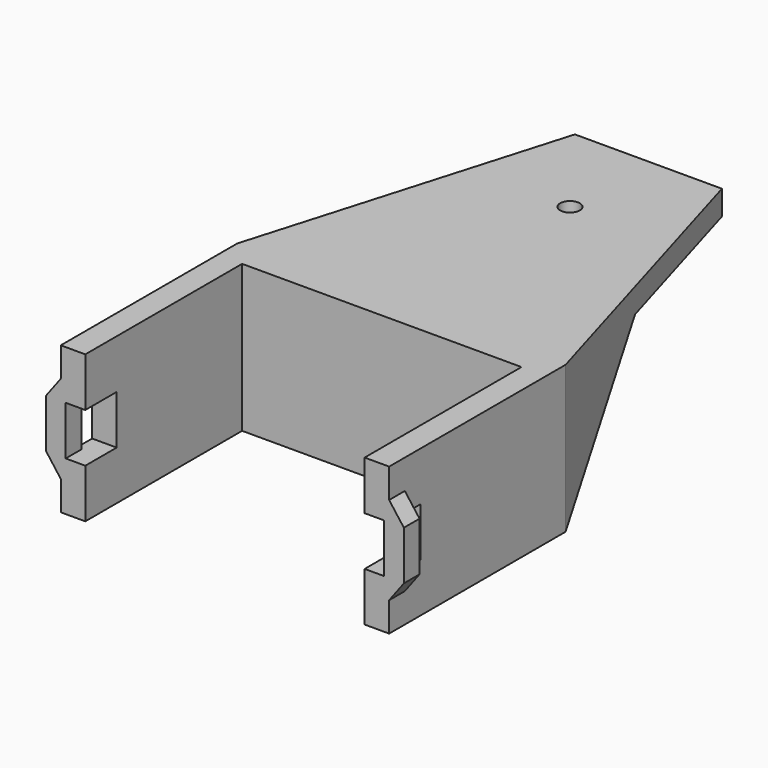
from build123d import *

# Parameters (mm, degrees)
SKETCH_R     = 2
PAD_DEPTH    = 30
SKETCH001_W  = 8
SKETCH001_H  = 10
POCKET_DEPTH = 67.001
PAD001_DEPTH = 4


with BuildPart() as part:
    # Sketch → Pad (new body)
    with BuildSketch(Plane.XY):
        Polygon((-33.5, 0), (-33.5, 45), (-15, 108), (15, 108), (33.5, 45), (33.5, 0), (28.5, 0), (28.5, 40), (-28.5, 40), (-28.5, 0), align=None)
        with Locations((0, 88)):
            Circle(SKETCH_R, mode=Mode.SUBTRACT)
    extrude(amount=PAD_DEPTH)

    # Sketch001 (on Face1 of Pad) → Pocket (cut, through all)
    with BuildSketch(Plane.YZ.offset(33.5)):
        Polygon((45, 0), (73, 25), (108, 25), (108, 0), align=None)
        with Locations((4, 15)):
            Rectangle(SKETCH001_W, SKETCH001_H)
    extrude(amount=-POCKET_DEPTH, mode=Mode.SUBTRACT)

    # Sketch002 (on Face3 of Pocket) → Pad001 (join)
    with BuildSketch(Plane.XZ):
        Polygon((32.5, 20), (33.5, 24), (36.5, 20), (36.5, 10), (33.5, 6), (32.5, 10), align=None)
        Polygon((-32.5, 20), (-33.5, 24), (-36.5, 20), (-36.5, 10), (-33.5, 6), (-32.5, 10), align=None)
    extrude(amount=-PAD001_DEPTH)


solid = part.part
